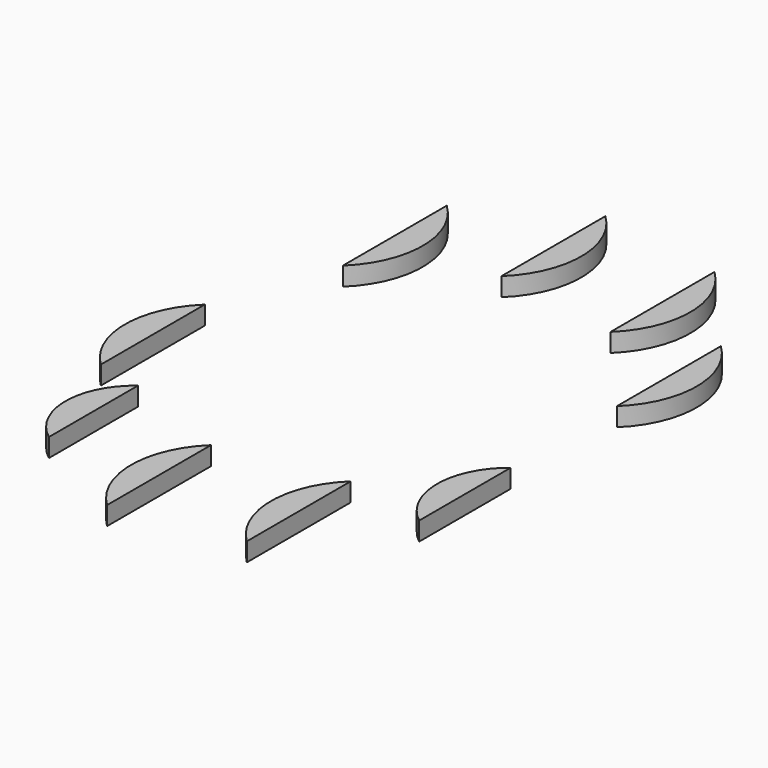
from build123d import *

# Parameters (mm, degrees)
F1_DEPTH = 1.27


with BuildPart() as f1:
    # F0 (on Top) → F1 (new body, symmetric)
    with BuildSketch(Plane.XY):
        with BuildLine():
            Line((-4.746487, 42.732572), (-4.746487, 24.952572))
            ThreePointArc((-4.746487, 24.952572), (-0.936487, 33.842572), (-4.746487, 42.732572))
        make_face()
        with BuildLine():
            Line((12.419703, 39.936511), (12.419703, 22.156511))
            ThreePointArc((12.419703, 22.156511), (16.229703, 31.046511), (12.419703, 39.936511))
        make_face()
        with BuildLine():
            Line((23.688323, 26.946426), (23.688323, 9.166426))
            ThreePointArc((23.688323, 9.166426), (27.498323, 18.056426), (23.688323, 26.946426))
        make_face()
        with BuildLine():
            Line((23.725611, -24.725686), (23.725611, -9.069474))
            ThreePointArc((23.725611, -9.069474), (19.915611, -16.89758), (23.725611, -24.725686))
        make_face()
        with BuildLine():
            Line((12.342329, -39.979705), (12.342329, -22.199705))
            ThreePointArc((12.342329, -22.199705), (8.532329, -31.089705), (12.342329, -39.979705))
        make_face()
        with BuildLine():
            Line((-4.559843, -42.767354), (-4.559843, -24.987354))
            ThreePointArc((-4.559843, -24.987354), (-8.369843, -33.877354), (-4.559843, -42.767354))
        make_face()
        with BuildLine():
            Line((-19.256222, -34.343753), (-19.256222, -19.10862))
            ThreePointArc((-19.256222, -19.10862), (-23.066222, -26.726186), (-19.256222, -34.343753))
        make_face()
        with BuildLine():
            Line((-25.4, -17.78), (-25.4, 0))
            ThreePointArc((-25.4, 0), (-29.21, -8.89), (-25.4, -17.78))
        make_face()
        with BuildLine():
            Line((-19.5074, 34.047186), (-19.5074, 16.267186))
            ThreePointArc((-19.5074, 16.267186), (-15.6974, 25.157186), (-19.5074, 34.047186))
        make_face()
    extrude(amount=F1_DEPTH, both=True)


solid = f1.part
